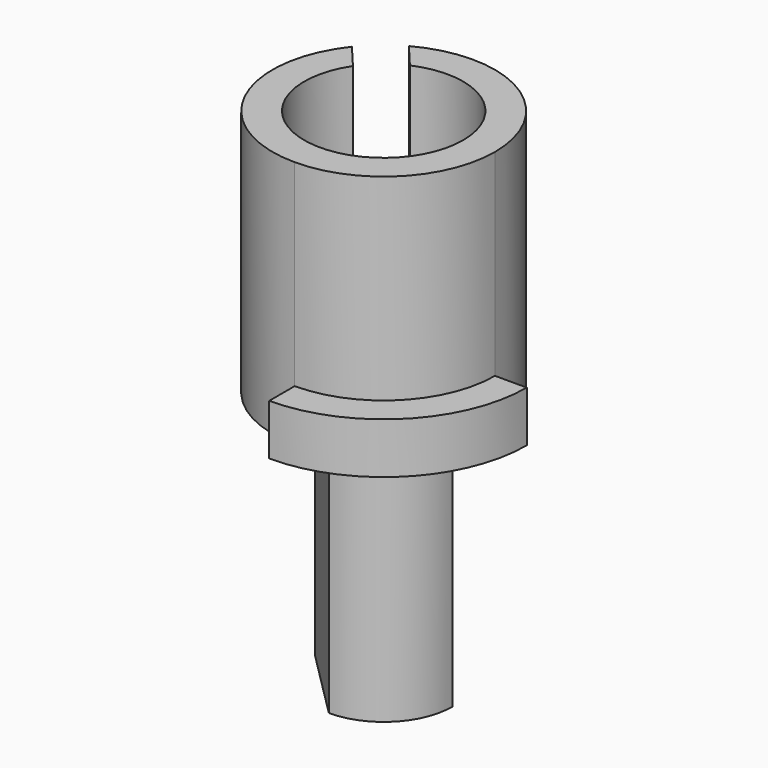
from build123d import *

# Parameters (mm, degrees)
F1_DEPTH = 7.8
F3_DEPTH = 6.2
F4_DEPTH = 1.6
F6_DEPTH = 8
F8_DEPTH = 8.7


with BuildPart() as f1:
    # F0 (on Top) → F1 (new body)
    with BuildSketch(Plane.XY):
        with BuildLine():
            ThreePointArc((0, -3.5), (2.4748737342, -2.4748737342), (3.5, 0))
            Line((3.5, 0), (0, 0))
            Line((0, 0), (0, -3.5))
        make_face()
        with BuildLine():
            Line((0, 0), (3.5, 0))
            ThreePointArc((3.5, 0), (1.7904958486, 3.0073451109), (-1.6680712092, 3.0769365351))
            Line((-1.6680712092, 3.0769365351), (-0.7059061386, 1.9302728555))
            Line((-0.7059061386, 1.9302728555), (-1.2421372488, 1.4803215287))
            Line((-1.2421372488, 1.4803215287), (-1.778368359, 1.030370202))
            Line((-1.778368359, 1.030370202), (-2.7405334296, 2.1770338815))
            ThreePointArc((-2.7405334296, 2.1770338815), (-3.1519532504, -1.5215750745), (0, -3.5))
            Line((0, -3.5), (0, 0))
        make_face()
    extrude(amount=F1_DEPTH)

    # F2 (on face) → F3 (cut)
    with BuildSketch(Plane.XY.offset(7.8)):
        with BuildLine():
            ThreePointArc((-2.0789213734, 1.3885553367), (-0.7254986445, -2.3924154566), (2.5, 0))
            ThreePointArc((2.5, 0), (1.3663550266, 2.0935792178), (-1.0064591531, 2.2884579903))
            Line((-1.0064591531, 2.2884579903), (-0.7059061386, 1.9302728555))
            Line((-0.7059061386, 1.9302728555), (-1.778368359, 1.030370202))
            Line((-1.778368359, 1.030370202), (-2.0789213734, 1.3885553367))
        make_face()
    extrude(amount=-F3_DEPTH, mode=Mode.SUBTRACT)

    # F0 (on Top) → F4 (join)
    with BuildSketch(Plane.XY):
        with BuildLine():
            Line((-0.7059061386, 1.9302728555), (-1.6680712092, 3.0769365351))
            ThreePointArc((-1.6680712092, 3.0769365351), (-2.2497566339, 2.6811555509), (-2.7405334296, 2.1770338815))
            Line((-2.7405334296, 2.1770338815), (-1.778368359, 1.030370202))
            Line((-1.778368359, 1.030370202), (-1.2421372488, 1.4803215287))
            Line((-1.2421372488, 1.4803215287), (-0.7059061386, 1.9302728555))
        make_face()
        with BuildLine():
            Line((4.5, 0), (3.5, 0))
            ThreePointArc((3.5, 0), (2.4748737342, -2.4748737342), (0, -3.5))
            Line((0, -3.5), (0, -4.5))
            ThreePointArc((0, -4.5), (3.1819805153, -3.1819805153), (4.5, 0))
        make_face()
    extrude(amount=F4_DEPTH)

    # F5 (on face) → F6 (join)
    with BuildSketch(Plane(origin=(0, 0, 0), x_dir=(1, 0, 0), z_dir=(0, 0, -1))):
        Polygon((-2.1566756826, 0), (0, -2.1566756826), (2.1566756826, 0), (0, 2.1566756826), align=None)
    extrude(amount=F6_DEPTH)

    # F7 (on face) → F8 (join)
    with BuildSketch(Plane(origin=(0, 0, -8), x_dir=(1, 0, 0), z_dir=(0, 0, -1))):
        with BuildLine():
            Line((0, -2.1566756826), (-2.1566756826, 0))
            ThreePointArc((-2.1566756826, 0), (-1.525, -1.525), (0, -2.1566756826))
        make_face()
        with BuildLine():
            ThreePointArc((2.1566756826, 0), (1.525, 1.525), (0, 2.1566756826))
            Line((0, 2.1566756826), (2.1566756826, 0))
        make_face()
    extrude(amount=-F8_DEPTH)


solid = f1.part
